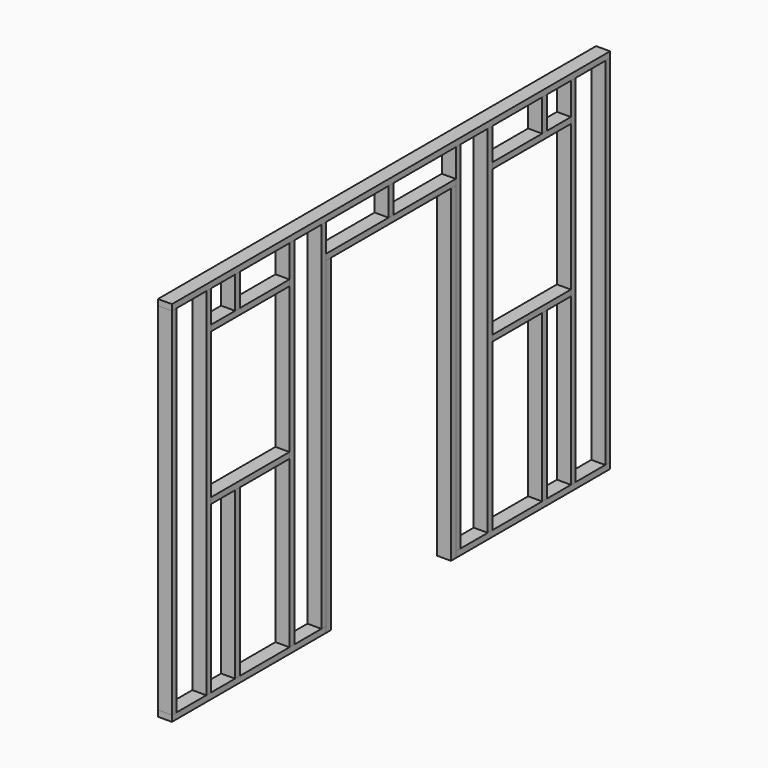
from build123d import *

# Parameters (mm, degrees)
F0_W     = 38.1
F0_H     = 2260.6
F0_H_2   = 1054.1
F0_H_3   = 203.2
F0_H_4   = 177.8
F1_DEPTH = 88.9
F2_DEPTH = 88.9
F3_DEPTH = 88.9


with BuildPart() as f1:
    # F0 (on Right) → F1 (new body)
    with BuildSketch(Plane.YZ):
        with Locations((-1720.85, 1168.4)):
            Rectangle(F0_W, F0_H)
        Polygon((-1466.85, 2298.7), (-1466.85, 38.1), (-1428.75, 38.1), (-1428.75, 1092.2), (-1428.75, 1130.3), (-1428.75, 2057.4), (-1428.75, 2095.5), (-1428.75, 2298.7), align=None)
        Polygon((-806.45, 2057.4), (-806.45, 1130.3), (-806.45, 1092.2), (-806.45, 38.1), (-768.35, 38.1), (-768.35, 2298.7), (-806.45, 2298.7), (-806.45, 2095.5), align=None)
        Polygon((-552.45, 38.1), (-514.35, 38.1), (-514.35, 2082.8), (-514.35, 2120.9), (-514.35, 2298.7), (-552.45, 2298.7), align=None)
        Polygon((514.35, 2120.9), (514.35, 2082.8), (514.35, 38.1), (552.45, 38.1), (552.45, 2298.7), (514.35, 2298.7), align=None)
        Polygon((768.35, 2298.7), (768.35, 38.1), (806.45, 38.1), (806.45, 1092.2), (806.45, 1130.3), (806.45, 2057.4), (806.45, 2095.5), (806.45, 2298.7), align=None)
        Polygon((1466.85, 38.1), (1466.85, 2298.7), (1428.75, 2298.7), (1428.75, 2095.5), (1428.75, 2057.4), (1428.75, 1130.3), (1428.75, 1092.2), (1428.75, 38.1), align=None)
        with Locations((1720.85, 1168.4)):
            Rectangle(F0_W, F0_H)
        with Locations((-1219.2, 565.15)):
            Rectangle(F0_W, F0_H_2)
        with Locations((-1219.2, 2197.1)):
            Rectangle(F0_W, F0_H_3)
        with Locations((0, 2209.8)):
            Rectangle(F0_W, F0_H_4)
        with Locations((1219.2, 2197.1)):
            Rectangle(F0_W, F0_H_3)
        with Locations((1219.2, 565.15)):
            Rectangle(F0_W, F0_H_2)
    extrude(amount=F1_DEPTH)


with BuildPart() as f2:
    # F0 (on Right) → F2 (new body)
    with BuildSketch(Plane.YZ):
        Polygon((-1238.25, 2095.5), (-1428.75, 2095.5), (-1428.75, 2057.4), (-806.45, 2057.4), (-806.45, 2095.5), (-1200.15, 2095.5), align=None)
        Polygon((-1701.8, 2298.7), (-1466.85, 2298.7), (-1428.75, 2298.7), (-1238.25, 2298.7), (-1200.15, 2298.7), (-806.45, 2298.7), (-768.35, 2298.7), (-552.45, 2298.7), (-514.35, 2298.7), (-19.05, 2298.7), (19.05, 2298.7), (514.35, 2298.7), (552.45, 2298.7), (768.35, 2298.7), (806.45, 2298.7), (1200.15, 2298.7), (1238.25, 2298.7), (1428.75, 2298.7), (1466.85, 2298.7), (1701.8, 2298.7), (1739.9, 2298.7), (1739.9, 2336.8), (-1739.9, 2336.8), (-1739.9, 2298.7), align=None)
        Polygon((-514.35, 2120.9), (-514.35, 2082.8), (-476.25, 2082.8), (476.25, 2082.8), (514.35, 2082.8), (514.35, 2120.9), (19.05, 2120.9), (-19.05, 2120.9), align=None)
        Polygon((1428.75, 2057.4), (1428.75, 2095.5), (1238.25, 2095.5), (1200.15, 2095.5), (806.45, 2095.5), (806.45, 2057.4), align=None)
        Polygon((-1428.75, 1130.3), (-1428.75, 1092.2), (-1238.25, 1092.2), (-1200.15, 1092.2), (-806.45, 1092.2), (-806.45, 1130.3), align=None)
        Polygon((-1428.75, 38.1), (-1466.85, 38.1), (-1701.8, 38.1), (-1739.9, 38.1), (-1739.9, 0), (-514.35, 0), (-514.35, 38.1), (-552.45, 38.1), (-768.35, 38.1), (-806.45, 38.1), (-1200.15, 38.1), (-1238.25, 38.1), align=None)
        Polygon((1739.9, 0), (1739.9, 38.1), (1701.8, 38.1), (1466.85, 38.1), (1428.75, 38.1), (1238.25, 38.1), (1200.15, 38.1), (806.45, 38.1), (768.35, 38.1), (552.45, 38.1), (514.35, 38.1), (514.35, 0), align=None)
        Polygon((1238.25, 1092.2), (1428.75, 1092.2), (1428.75, 1130.3), (806.45, 1130.3), (806.45, 1092.2), (1200.15, 1092.2), align=None)
    extrude(amount=F2_DEPTH)


with BuildPart() as f3:
    # F0 (on Right) → F3 (new body)
    with BuildSketch(Plane.YZ):
        Polygon((-514.35, 38.1), (-514.35, 0), (-476.25, 0), (-476.25, 2082.8), (-514.35, 2082.8), align=None)
        Polygon((514.35, 2082.8), (476.25, 2082.8), (476.25, 0), (514.35, 0), (514.35, 38.1), align=None)
    extrude(amount=F3_DEPTH)


solid = Compound([f1.part, f2.part, f3.part])
